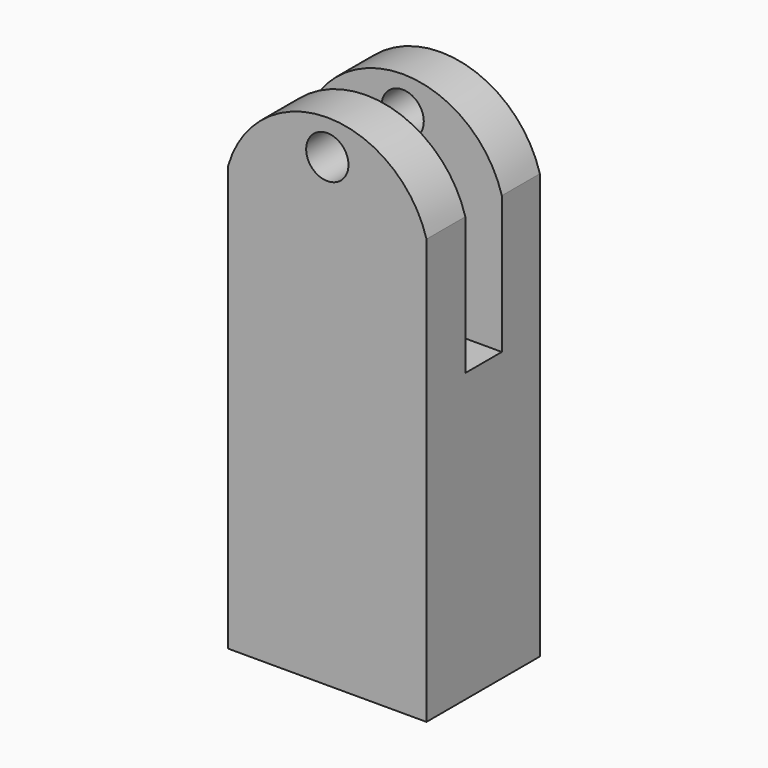
from build123d import *

# Parameters (mm, degrees)
F0_W     = 177.8
F0_H     = 127
F1_DEPTH = 381
F2_R     = 18.95411
F3_DEPTH = 127
F4_W     = 40.922687
F4_H     = 69.383157
F5_DEPTH = 254
F6_W     = 40.922687
F6_H     = 123.355615
F7_DEPTH = 254


with BuildPart() as f1:
    # F0 (on Top) → F1 (new body)
    with BuildSketch(Plane.XY):
        with Locations((4.63968, -0.782099)):
            Rectangle(F0_W, F0_H)
    extrude(amount=F1_DEPTH)

    # F2 (on face) → F3 (join)
    with BuildSketch(Plane.XZ.offset(64.282099)):
        with BuildLine():
            Line((-84.26032, 381), (93.53968, 381))
            ThreePointArc((93.53968, 381), (4.63968, 448.077188), (-84.26032, 381))
        make_face()
        with Locations((4.63968, 416.82452)):
            Circle(F2_R, mode=Mode.SUBTRACT)
    extrude(amount=-F3_DEPTH)

    # F4 (on face) → F5 (cut)
    with BuildSketch(Plane.YZ.offset(93.53968)):
        with Locations((-0.347936, 415.691578)):
            Rectangle(F4_W, F4_H)
    extrude(amount=-F5_DEPTH, mode=Mode.SUBTRACT)

    # F6 (on face) → F7 (cut)
    with BuildSketch(Plane(origin=(-84.26032, 0, 0), x_dir=(0, -1, 0), z_dir=(-1, 0, 0))):
        with Locations((0.347936, 319.322193)):
            Rectangle(F6_W, F6_H)
    extrude(amount=-F7_DEPTH, mode=Mode.SUBTRACT)


solid = f1.part
